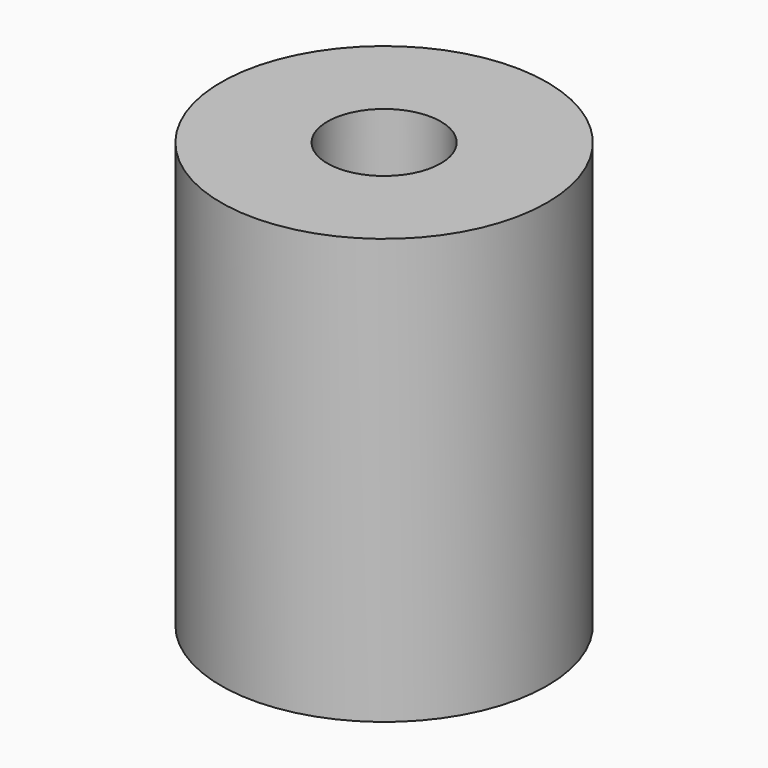
from build123d import *

# Parameters (mm, degrees)
SKETCH_R   = 4.6
SKETCH_R_2 = 1.6
PAD_DEPTH  = 12


with BuildPart() as part:
    # Sketch → Pad (new body)
    with BuildSketch(Plane.XY):
        Circle(SKETCH_R)
        Circle(SKETCH_R_2, mode=Mode.SUBTRACT)
    extrude(amount=PAD_DEPTH)


solid = part.part
